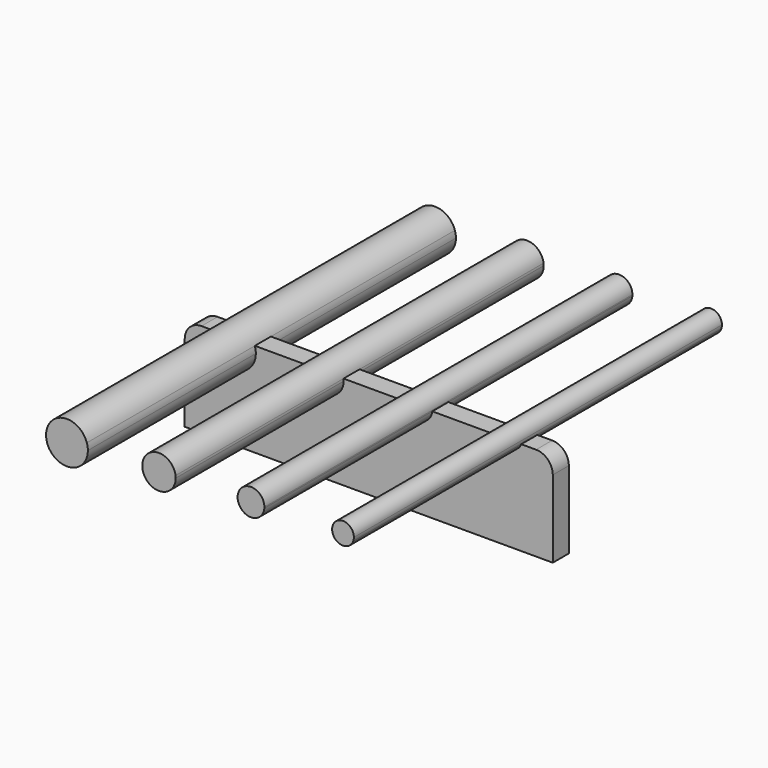
from build123d import *

# Parameters (mm, degrees)
F1_DEPTH = 27.5
F2_DEPTH = 2.4
F3_R     = 2


with BuildPart() as f1:
    # F0 (on Front) → F1 (new body, symmetric)
    with BuildSketch(Plane.XZ):
        with BuildLine():
            ThreePointArc((-22.304044, -1.732091), (-20.313583, -4.969601), (-17.424902, -2.5))
            ThreePointArc((-17.424902, -2.5), (-17.455301, -2.111319), (-17.54576, -1.732091))
            Line((-17.54576, -1.732091), (-22.304044, -1.732091))
        make_face()
        with BuildLine():
            ThreePointArc((-6.942927, -1.732091), (-8.924902, 0), (-10.906877, -1.732091))
            Line((-10.906877, -1.732091), (-6.942927, -1.732091))
        make_face()
        with BuildLine():
            Line((-6.942927, -1.732091), (-10.906877, -1.732091))
            ThreePointArc((-10.906877, -1.732091), (-9.059159, -3.995489), (-6.924902, -2))
            ThreePointArc((-6.924902, -2), (-6.929413, -1.865743), (-6.942927, -1.732091))
        make_face()
        with BuildLine():
            Line((3.669636, -1.732091), (0.48056, -1.732091))
            ThreePointArc((0.48056, -1.732091), (2.075098, -3.2), (3.669636, -1.732091))
        make_face()
        with BuildLine():
            ThreePointArc((3.675098, -1.6), (2.008996, -0.001366), (0.48056, -1.732091))
            Line((0.48056, -1.732091), (3.669636, -1.732091))
            ThreePointArc((3.669636, -1.732091), (3.673732, -1.666102), (3.675098, -1.6))
        make_face()
        with BuildLine():
            Line((-22.304044, -1.732091), (-17.54576, -1.732091))
            ThreePointArc((-17.54576, -1.732091), (-19.924902, 0), (-22.304044, -1.732091))
        make_face()
        with BuildLine():
            Line((14.301188, -1.732091), (11.849008, -1.732091))
            ThreePointArc((11.849008, -1.732091), (13.075098, -2.6), (14.301188, -1.732091))
        make_face()
        with BuildLine():
            ThreePointArc((14.375098, -1.3), (12.855915, -0.018611), (11.849008, -1.732091))
            Line((11.849008, -1.732091), (14.301188, -1.732091))
            ThreePointArc((14.301188, -1.732091), (14.356487, -1.519183), (14.375098, -1.3))
        make_face()
    extrude(amount=F1_DEPTH, both=True)


with BuildPart() as f2:
    # F0 (on Front) → F2 (new body)
    with BuildSketch(Plane.XZ):
        with BuildLine():
            ThreePointArc((-17.54576, -1.732091), (-17.455301, -2.111319), (-17.424902, -2.5))
            ThreePointArc((-17.424902, -2.5), (-20.313583, -4.969601), (-22.304044, -1.732091))
            Line((-22.304044, -1.732091), (-25.924902, -1.732091))
            Line((-25.924902, -1.732091), (-25.924902, -12.978235))
            Line((-25.924902, -12.978235), (18.075098, -12.978235))
            Line((18.075098, -12.978235), (18.075098, -1.732091))
            Line((18.075098, -1.732091), (14.301188, -1.732091))
            ThreePointArc((14.301188, -1.732091), (13.075098, -2.6), (11.849008, -1.732091))
            Line((11.849008, -1.732091), (3.669636, -1.732091))
            ThreePointArc((3.669636, -1.732091), (2.075098, -3.2), (0.48056, -1.732091))
            Line((0.48056, -1.732091), (-6.942927, -1.732091))
            ThreePointArc((-6.942927, -1.732091), (-6.929413, -1.865743), (-6.924902, -2))
            ThreePointArc((-6.924902, -2), (-9.059159, -3.995489), (-10.906877, -1.732091))
            Line((-10.906877, -1.732091), (-17.54576, -1.732091))
        make_face()
    extrude(amount=F2_DEPTH)

    # F3
    f3_edges = [f2.edges().sort_by_distance(p)[0] for p in [
        (18.075098, -1.2, -1.732091),
        (-25.924902, -1.2, -1.732091),
    ]]
    fillet(f3_edges, radius=F3_R)


solid = Compound([f1.part, f2.part])
